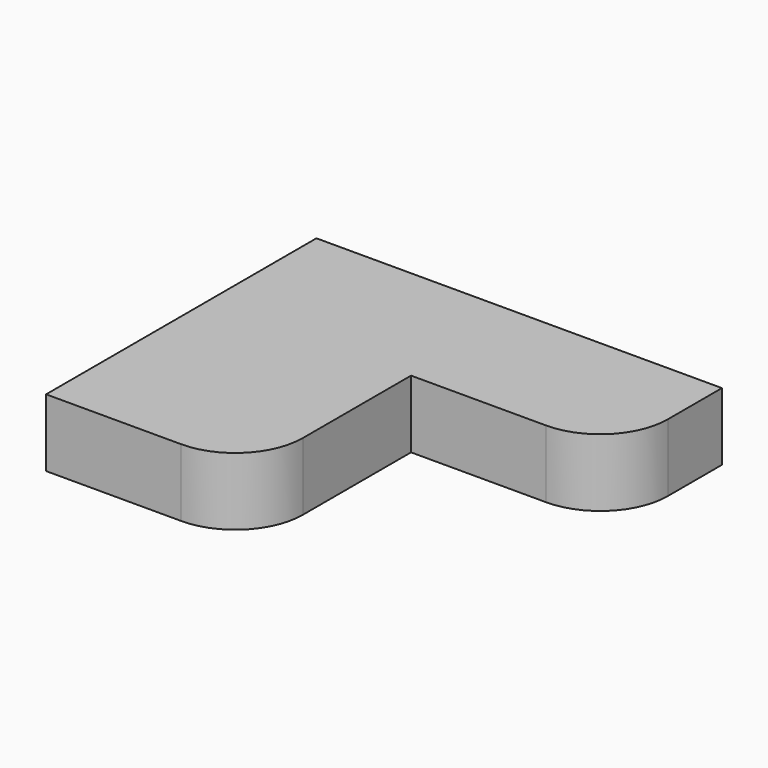
from build123d import *

# Parameters (mm, degrees)
F0_W     = 10
F0_H     = 10
F1_DEPTH = 10


with BuildPart() as f1:
    # F0 (on Top) → F1 (new body)
    with BuildSketch(Plane.XY):
        Polygon((-10, 20), (-30, 20), (-30, 10), (-20, 10), (-10, 10), align=None)
        Polygon((0, 20), (-10, 20), (-10, 10), (20, 10), (20, 20), align=None)
        Polygon((-20, 10), (-30, 10), (-30, 0), (-30, -30), (-20, -30), align=None)
        with BuildLine():
            Line((20, 10), (-10, 10))
            Line((-10, 10), (-20, 10))
            Line((-20, 10), (-20, -30))
            Line((-20, -30), (-10, -30))
            ThreePointArc((-10, -30), (-2.928932, -27.071068), (0, -20))
            Line((0, -20), (0, 0))
            Line((0, 0), (20, 0))
            ThreePointArc((20, 0), (27.071068, 2.928932), (30, 10))
            Line((30, 10), (20, 10))
        make_face()
        with Locations((25, 15)):
            Rectangle(F0_W, F0_H)
    extrude(amount=F1_DEPTH)


solid = f1.part
